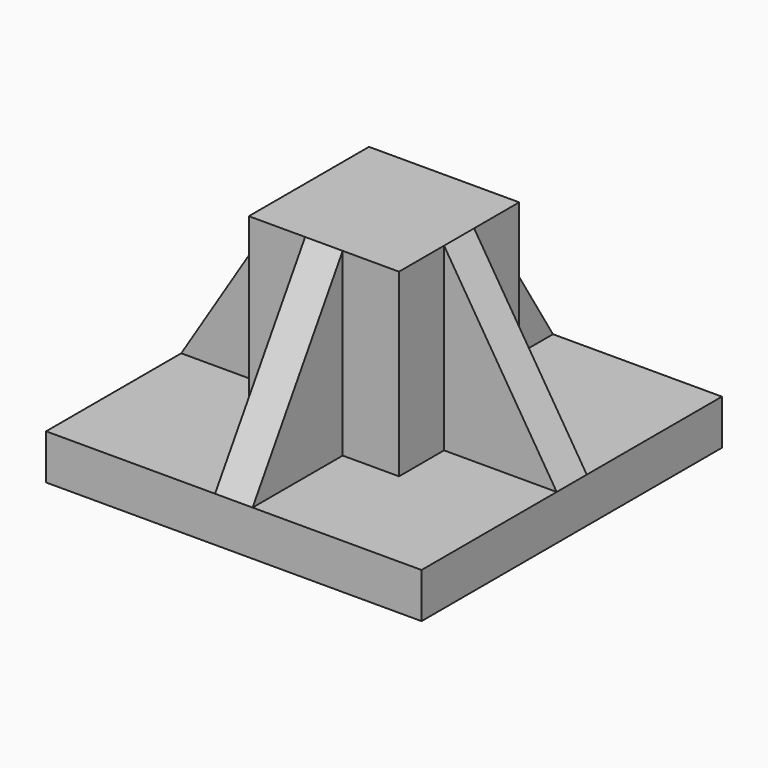
from build123d import *

# Parameters (mm, degrees)
SKETCH_W           = 100
SKETCH_H           = 100
PAD_DEPTH          = 12
SKETCH001_W        = 40
SKETCH001_H        = 40
PAD001_DEPTH       = 48
PAD002_DEPTH       = 5
POLARPATTERN_COUNT = 4


with BuildPart() as part:
    # Sketch → Pad (new body)
    with BuildSketch(Plane.XY):
        Rectangle(SKETCH_W, SKETCH_H)
    extrude(amount=PAD_DEPTH)

    # Sketch001 (on Face6 of Pad) → Pad001 (join)
    with BuildSketch(Plane.XY.offset(12)):
        Rectangle(SKETCH001_W, SKETCH001_H)
    extrude(amount=PAD001_DEPTH)

    # Sketch002 → Pad002 (join, symmetric)
    with BuildSketch(Plane.XZ):
        Polygon((20, 60), (20, 12), (50, 12), align=None)
    pad002 = extrude(amount=PAD002_DEPTH, both=True)

    # PolarPattern: Pad002 ×4 about axis
    polarpattern_axis = Axis((0, 0, 0), (0, 0, 1))
    for i in range(1, POLARPATTERN_COUNT):
        add(pad002.rotate(polarpattern_axis, i * 360 / POLARPATTERN_COUNT))


solid = part.part
